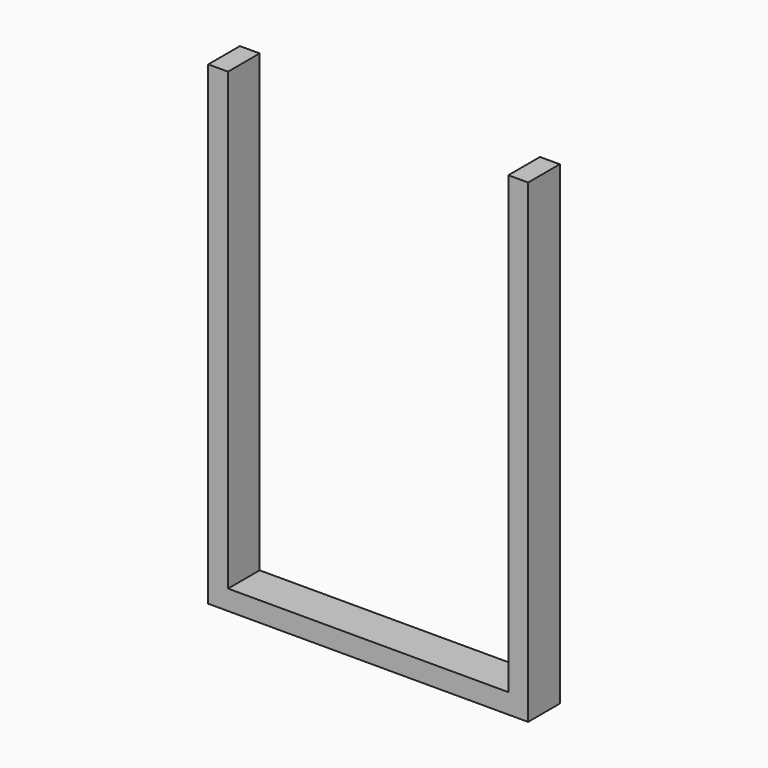
from build123d import *

# Parameters (mm, degrees)
F0_W     = 269.875
F0_H     = 76.2
F1_DEPTH = 38.1
F2_W     = 76.2
F2_H     = 914.4
F3_DEPTH = 38.1


with BuildPart() as f1:
    # F0 (on Top) → F1 (new body)
    with BuildSketch(Plane.XY):
        with Locations((134.9375, 38.1)):
            Rectangle(F0_W, F0_H)
    extrude(amount=F1_DEPTH)

    # F2 (on face) → F3 (join)
    with BuildSketch(Plane.YZ.offset(269.875)):
        with Locations((38.1, 457.2)):
            Rectangle(F2_W, F2_H)
    extrude(amount=F3_DEPTH)

    # F4: F1 across plane


with BuildPart() as f1_1:
    add(f1.part)
    add(f1.part.mirror(Plane.YZ))


solid = f1_1.part
